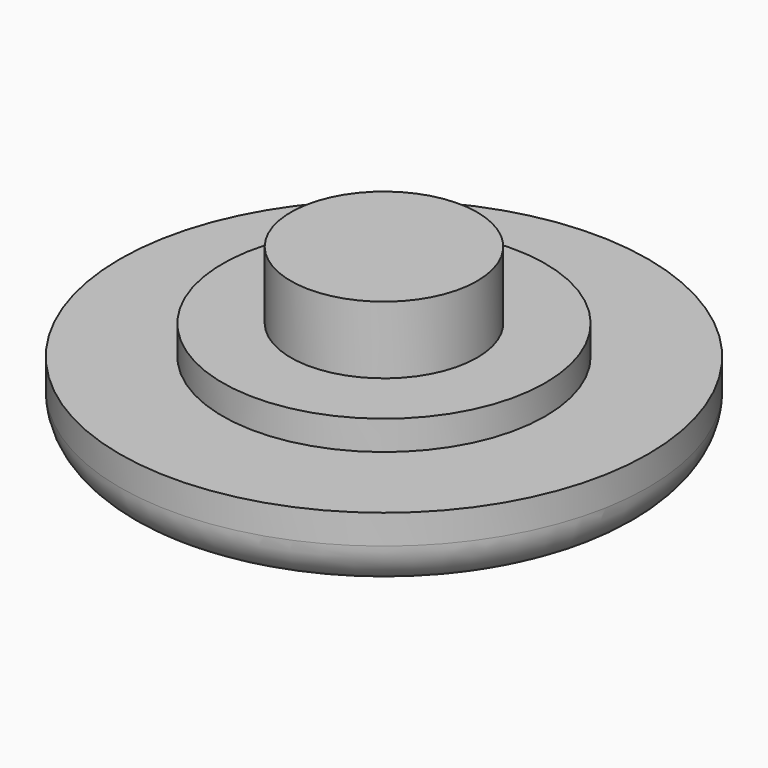
from build123d import *

# Parameters (mm, degrees)
F0_R     = 9
F0_R_2   = 5.5
F1_DEPTH = 2.5
F0_R_3   = 3.175
F2_DEPTH = 3.5
F3_DEPTH = 5.8
F4_R     = 1.5


with BuildPart() as f1:
    # F0 (on Top) → F1 (new body)
    with BuildSketch(Plane.XY):
        Circle(F0_R)
        Circle(F0_R_2, mode=Mode.SUBTRACT)
    extrude(amount=F1_DEPTH)

    # F0 (on Top) → F2 (join, through all)
    with BuildSketch(Plane.XY):
        Circle(F0_R_2)
        Circle(F0_R_3, mode=Mode.SUBTRACT)
    extrude(amount=F2_DEPTH)

    # F0 (on Top) → F3 (join, through all)
    with BuildSketch(Plane.XY):
        Circle(F0_R_3)
    extrude(amount=F3_DEPTH)

    # F4
    f4_edges = [f1.edges().sort_by_distance(p)[0] for p in [
        (-9, 0, 0),
    ]]
    fillet(f4_edges, radius=F4_R)


solid = f1.part
